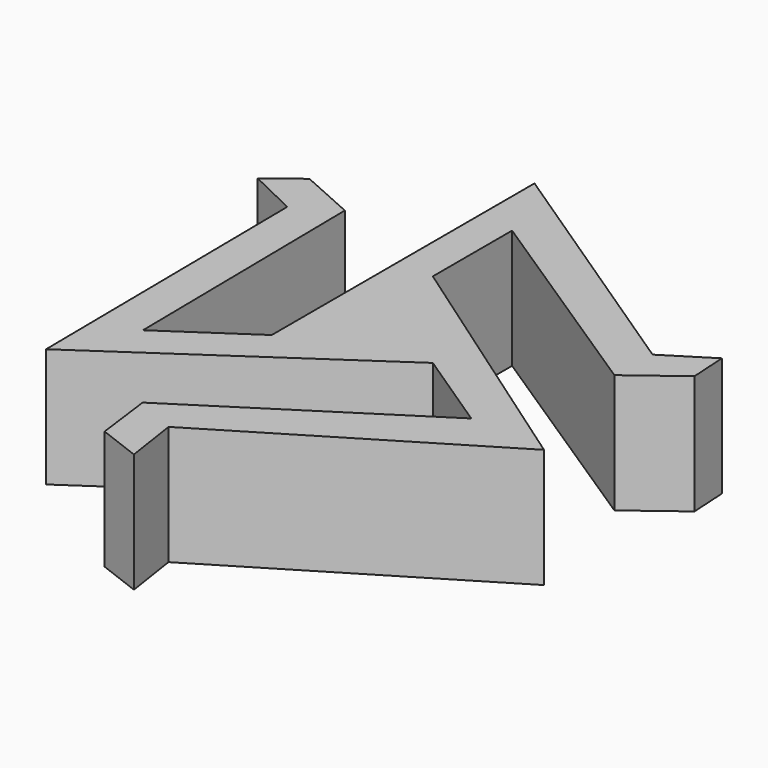
from build123d import *

# Parameters (mm, degrees)
F1_DEPTH = 10


with BuildPart() as f1:
    # F0 (on Top) → F1 (new body)
    with BuildSketch(Plane.XY):
        Polygon((20.291669, 8.263753), (20.106936, 11.373185), (16.231017, 8.939974), (-5.011893, 23.095696), (-5.011893, -4.488624), (-12.03272, -9.231045), (-12.317307, 12.317307), (-16.939798, 14.379821), (-19.642247, 12.317307), (-15.588573, 10.361707), (-15.307829, -15.307829), (5.710987, -0.981465), (12.609342, -5.568516), (-5.632185, -17.267272), (-5.011893, -22.032116), (-1.471837, -23.38334), (-2.147449, -18.902965), (19.116553, -6.066334), (-1.969728, 8.619338), (-1.969728, 16.940035), (16.095432, 5.099044), align=None)
    extrude(amount=F1_DEPTH)


solid = f1.part
